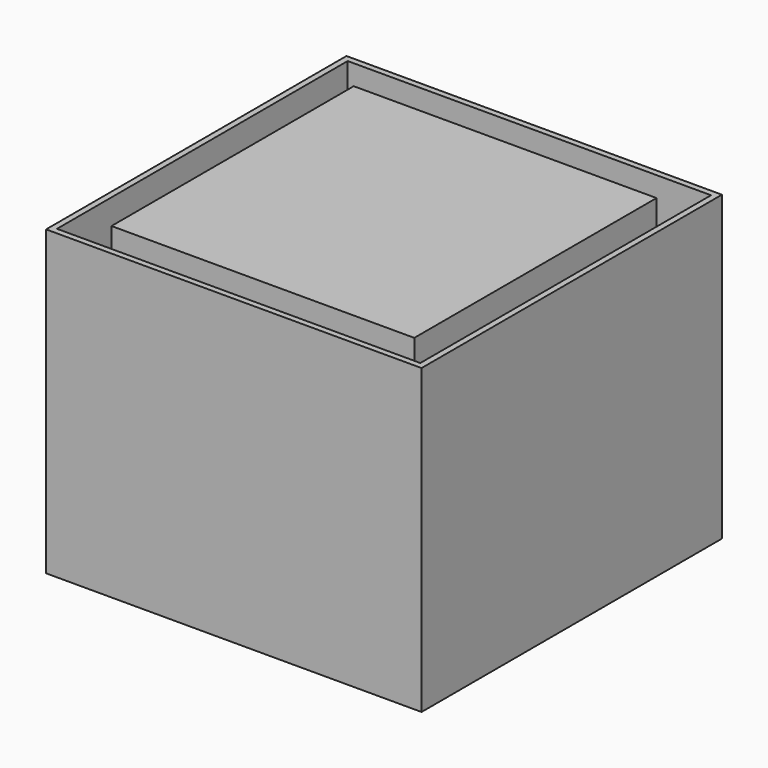
from build123d import *

# Parameters (mm, degrees)
F0_W     = 50
F0_H     = 50
F1_DEPTH = 50
F0_W_2   = 62
F0_H_2   = 62
F0_W_3   = 60
F0_H_3   = 60
F2_DEPTH = 50


with BuildPart() as f1:
    # F0 (on Top) → F1 (new body)
    with BuildSketch(Plane.XY):
        with Locations((25, -25)):
            Rectangle(F0_W, F0_H)
    extrude(amount=F1_DEPTH)


with BuildPart() as f2:
    # F0 (on Top) → F2 (new body)
    with BuildSketch(Plane.XY):
        with Locations((25, -25)):
            Rectangle(F0_W_2, F0_H_2)
        with Locations((25, -25)):
            Rectangle(F0_W_3, F0_H_3, mode=Mode.SUBTRACT)
    extrude(amount=F2_DEPTH)


solid = Compound([f1.part, f2.part])
